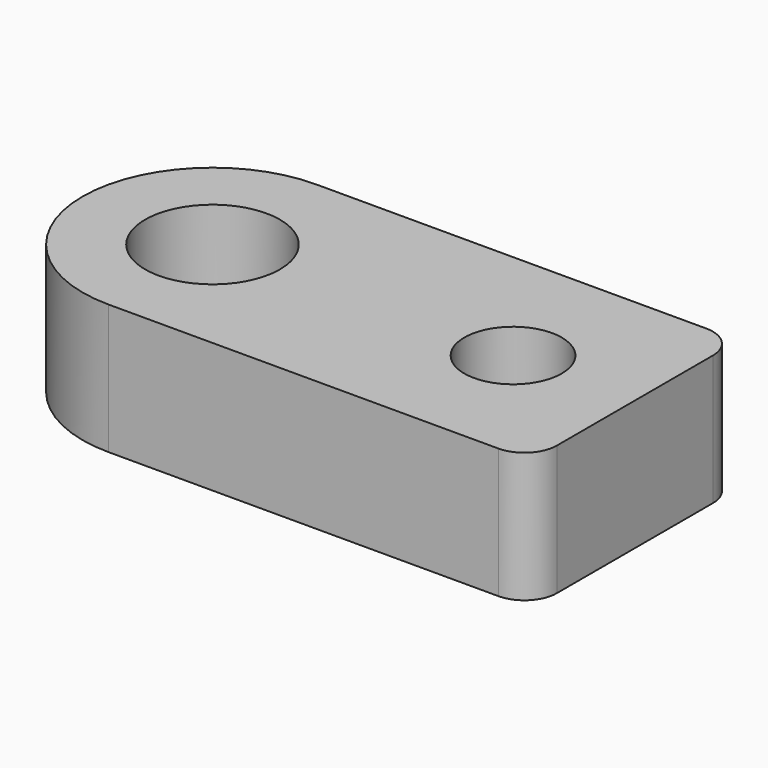
from build123d import *

# Parameters (mm, degrees)
SKETCH_R   = 3
SKETCH_R_2 = 4.15
PAD_DEPTH  = 4


with BuildPart() as part:
    # Sketch → Pad (new body, symmetric)
    with BuildSketch(Plane.XY):
        with BuildLine():
            Line((0, 8), (24, 8))
            ThreePointArc((26, 6), (25.414214, 7.414214), (24, 8))
            Line((26, 6), (26, -6))
            ThreePointArc((24, -8), (25.414214, -7.414214), (26, -6))
            Line((24, -8), (0, -8))
            ThreePointArc((0, 8), (-8, 0), (0, -8))
        make_face()
        with Locations((18.5, 0)):
            Circle(SKETCH_R, mode=Mode.SUBTRACT)
        Circle(SKETCH_R_2, mode=Mode.SUBTRACT)
    extrude(amount=PAD_DEPTH, both=True)


solid = part.part
